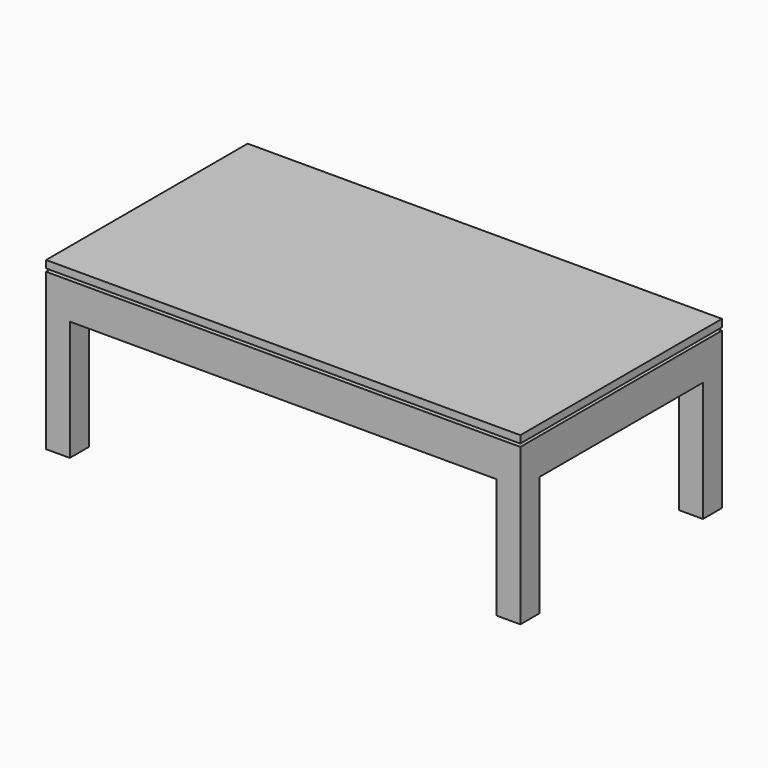
from build123d import *

# Parameters (mm, degrees)
F0_W      = 160
F0_H      = 85
F1_DEPTH  = 2.7
F3_DEPTH  = 1
F4_W      = 8
F4_H      = 8
F5_DEPTH  = 50
F6_DEPTH  = 50
F8_DEPTH  = 2.5
F9_W      = 144
F9_H      = 2.387096
F9_W_2    = 2.1
F9_H_2    = 69
F9_H_3    = 2.1
F10_DEPTH = 9.5


with BuildPart() as f1:
    # F0 (on Top) → F1 (new body)
    with BuildSketch(Plane.XY):
        with Locations((-80, 42.5)):
            Rectangle(F0_W, F0_H)
    extrude(amount=F1_DEPTH)

    # F2 (on face) → F3 (join)
    with BuildSketch(Plane.XY.offset(2.7)):
        Polygon((-1.5, 42.5), (-1.5, 83.5), (-80, 83.5), (-158.5, 83.5), (-158.5, 42.5), (-158.5, 1.5), (-80, 1.5), (-1.5, 1.5), align=None)
    extrude(amount=F3_DEPTH)

    # F4 (on face) → F5 (join)
    with BuildSketch(Plane(origin=(0, 0, 0), x_dir=(1, 0, 0), z_dir=(0, 0, -1))):
        with Locations((-156, -4)):
            Rectangle(F4_W, F4_H)
    extrude(amount=F5_DEPTH)

    # F4 (on face) → F6 (join)
    with BuildSketch(Plane(origin=(0, 0, 0), x_dir=(1, 0, 0), z_dir=(0, 0, -1))):
        with Locations((-156, -4)):
            Rectangle(F4_W, F4_H)
        with Locations((-156, -81)):
            Rectangle(F4_W, F4_H)
        with Locations((-4, -81)):
            Rectangle(F4_W, F4_H)
        with Locations((-4, -4)):
            Rectangle(F4_W, F4_H)
    extrude(amount=F6_DEPTH)

    # F7 (on face) → F8 (join)
    with BuildSketch(Plane.XY.offset(3.7)):
        Polygon((-160, 42.5), (-160, 0), (-80, 0), (0, 0), (0, 42.5), (0, 85), (-80, 85), (-160, 85), align=None)
    extrude(amount=F8_DEPTH)

    # F9 (on face) → F10 (join)
    with BuildSketch(Plane(origin=(0, 0, 0), x_dir=(1, 0, 0), z_dir=(0, 0, -1))):
        with Locations((-80, -1.193548)):
            Rectangle(F9_W, F9_H)
        with Locations((-158.95, -42.5)):
            Rectangle(F9_W_2, F9_H_2)
        with Locations((-1.05, -42.5)):
            Rectangle(F9_W_2, F9_H_2)
        with Locations((-80, -83.95)):
            Rectangle(F9_W, F9_H_3)
    extrude(amount=F10_DEPTH)


solid = f1.part
